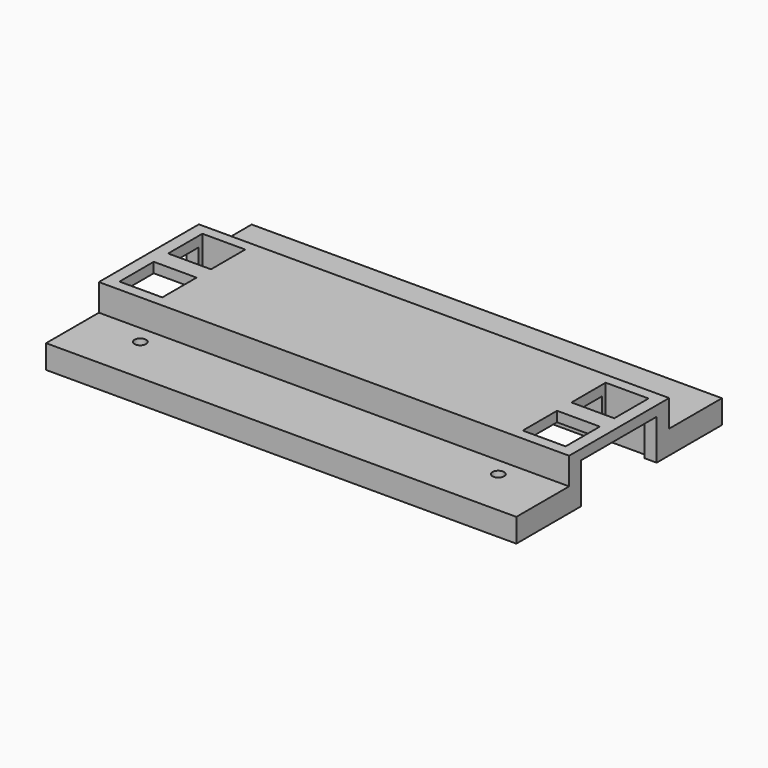
from build123d import *

# Parameters (mm, degrees)
F0_W      = 139.446
F0_H      = 14.999996
F1_DEPTH  = 38.1
F2_W      = 139.446
F2_H      = 19.567398
F3_DEPTH  = 8.000009
F5_W      = 12.7
F5_H      = 12.7
F6_DEPTH  = 21.844
F9_R      = 1.730591
F10_DEPTH = 42.164
F12_W     = 50.999898
F12_H     = 50.999898
F13_DEPTH = 1.5
F14_DEPTH = 12.000001


with BuildPart() as f1:
    # F0 (on Front) → F1 (new body, symmetric)
    with BuildSketch(Plane.XZ):
        Rectangle(F0_W, F0_H)
    extrude(amount=F1_DEPTH, both=True)

    # F2 (on face) → F3 (cut)
    with BuildSketch(Plane.XY.offset(7.499998)):
        with Locations((0, -28.316301)):
            Rectangle(F2_W, F2_H)
    extrude(amount=-F3_DEPTH, mode=Mode.SUBTRACT)

    # F4: F1 across plane


with BuildPart() as f1_1:
    add(f1.part)
    add(f1.part.mirror(Plane.XZ), mode=Mode.INTERSECT)

    # F5 (on face) → F6 (cut)
    with BuildSketch(Plane.XY.offset(7.499998)):
        with Locations((59.793662, -9.017324)):
            Rectangle(F5_W, F5_H)
    extrude(amount=-F6_DEPTH, mode=Mode.SUBTRACT)

    # F7: F1 across plane


with BuildPart() as f1_2:
    add(f1_1.part)
    add(f1_1.part.mirror(Plane.XZ), mode=Mode.INTERSECT)

    # F8: F1 across plane


with BuildPart() as f1_3:
    add(f1_2.part)
    add(f1_2.part.mirror(Plane.YZ), mode=Mode.INTERSECT)

    # F9 (on Top) → F10 (cut)
    with BuildSketch(Plane.XY):
        with Locations((53.080564, -23.971872)):
            Circle(F9_R)
        with Locations((53.080564, 23.971872)):
            Circle(F9_R)
        with Locations((-53.080564, 23.971872)):
            Circle(F9_R)
        with Locations((-53.080564, -23.971872)):
            Circle(F9_R)
    extrude(amount=-F10_DEPTH, mode=Mode.SUBTRACT)

    # F12 (on face) → F13 (cut)
    with BuildSketch(Plane(origin=(0, 0, -7.499998), x_dir=(1, 0, 0), z_dir=(0, 0, -1))):
        Rectangle(F12_W, F12_H)
    extrude(amount=-F13_DEPTH, mode=Mode.SUBTRACT)

    # F11 (on face) → F14 (cut)
    with BuildSketch(Plane(origin=(0, 0, -7.499998), x_dir=(1, 0, 0), z_dir=(0, 0, -1))):
        Polygon((69.723, -13.90828), (69.723, 14.091664), (1.722882, 14.091664), (-69.723, 14.091664), (-69.723, -13.90828), (1.722882, -13.90828), align=None)
    extrude(amount=-F14_DEPTH, mode=Mode.SUBTRACT)


solid = f1_3.part
